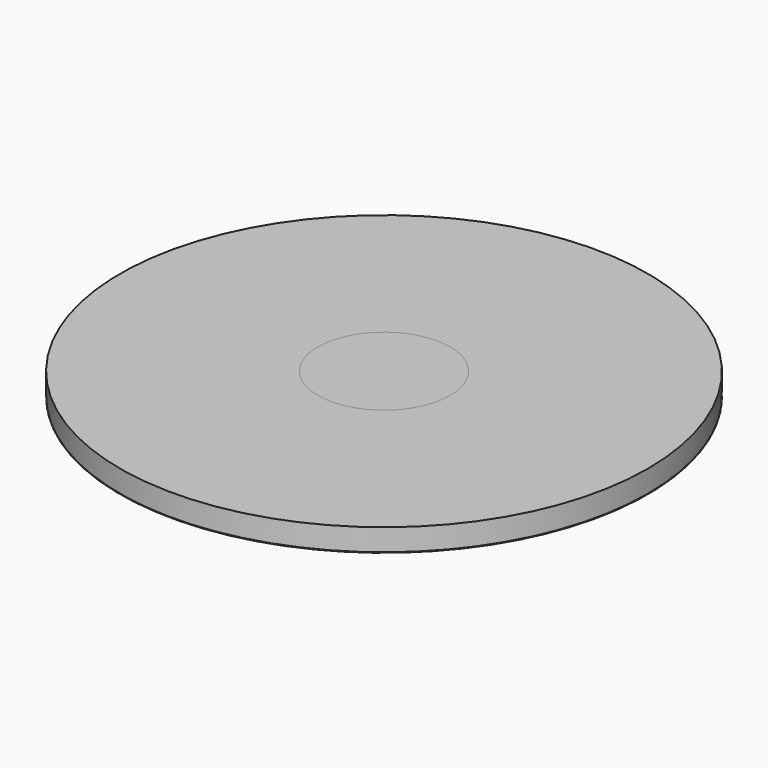
from build123d import *

# Parameters (mm, degrees)
F1_R     = 457.2
F2_DEPTH = 609.6
F0_R     = 1828.8
F0_R_2   = 457.2
F3_DEPTH = 152.4


with BuildPart() as f2:
    # F1 (on Top) → F2 (new body)
    with BuildSketch(Plane.XY):
        Circle(F1_R)
    extrude(amount=-F2_DEPTH)

    # F4 (on Front) → F5 (revolve)
    with BuildSketch(Plane.XZ):
        Polygon((-457.006649, -156.514913), (-1828.606649, -156.514913), (-457.006649, -613.714913), align=None)
    revolve(axis=Axis((0, 0, -609.6), (0, 0, 1)))


with BuildPart() as f3:
    # F0 (on Top) → F3 (new body)
    with BuildSketch(Plane.XY):
        Circle(F0_R)
        Circle(F0_R_2, mode=Mode.SUBTRACT)
    extrude(amount=-F3_DEPTH)


solid = Compound([f2.part, f3.part])
